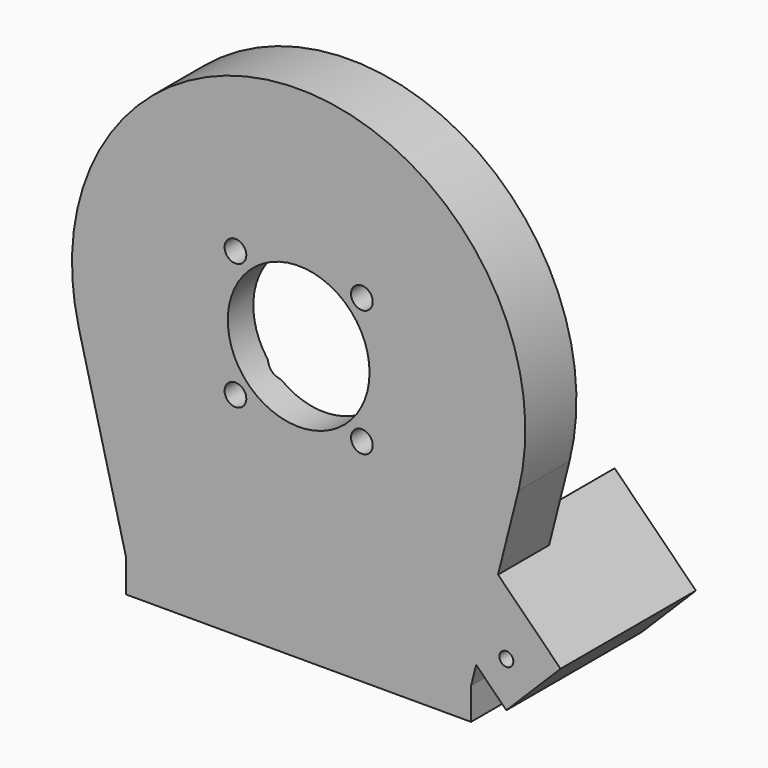
from build123d import *

# Parameters (mm, degrees)
SKETCH016_W         = 54
SKETCH016_H         = 20
SKETCH016_R         = 2.35
PAD010_DEPTH        = 5
SKETCH019_R         = 11.1
SKETCH019_R_2       = 1.65
PAD009_DEPTH        = 10
SKETCH017_R         = 32.6
POCKET006_DEPTH     = 15.001
SKETCH076_R         = 32.6
SKETCH076_R_2       = 28.75
PAD049_DEPTH        = 4
SKETCH090_R         = 1.092
PAD055_DEPTH        = 26.5
HOLE009_D           = 3.4
HOLE009_CSINK_D     = 6.7
HOLE009_CSINK_ANGLE = 90


with BuildPart() as part:
    # Sketch016 → Pad010 (new body)
    with BuildSketch(Plane.XY):
        with Locations((0, 10)):
            Rectangle(SKETCH016_W, SKETCH016_H)
        with Locations((-20, 15)):
            Circle(SKETCH016_R, mode=Mode.SUBTRACT)
        with Locations((20, 15)):
            Circle(SKETCH016_R, mode=Mode.SUBTRACT)
    extrude(amount=PAD010_DEPTH)

    # Sketch019 → Pad009 (join)
    with BuildSketch(Plane.XZ):
        with BuildLine():
            Line((-27, 5), (-34.41436, 34.287835))
            ThreePointArc((34.41436, 34.287835), (0, 78.5), (-34.41436, 34.287835))
            Line((34.41436, 34.287835), (27, 5))
            Line((-27, 5), (27, 5))
        make_face()
        with Locations((0, 43)):
            Circle(SKETCH019_R, mode=Mode.SUBTRACT)
        with Locations((9.899495, 52.899495)):
            Circle(SKETCH019_R_2, mode=Mode.SUBTRACT)
        with Locations((-9.899495, 52.899495)):
            Circle(SKETCH019_R_2, mode=Mode.SUBTRACT)
        with Locations((9.899495, 33.100505)):
            Circle(SKETCH019_R_2, mode=Mode.SUBTRACT)
        with Locations((-9.899495, 33.100505)):
            Circle(SKETCH019_R_2, mode=Mode.SUBTRACT)
    extrude(amount=-PAD009_DEPTH)

    # Sketch017 → Pocket006 (cut, through all)
    with BuildSketch(Plane.XZ.offset(-5)):
        with Locations((0, 43)):
            Circle(SKETCH017_R)
    extrude(amount=-POCKET006_DEPTH, mode=Mode.SUBTRACT)

    # Sketch076 → Pad049 (join)
    with BuildSketch(Plane.XZ.offset(-4)):
        with Locations((0, 43)):
            Circle(SKETCH076_R)
        with Locations((0, 43)):
            Circle(SKETCH076_R_2, mode=Mode.SUBTRACT)
    extrude(amount=-PAD049_DEPTH)

    # Sketch090 → Pad055 (join)
    with BuildSketch(Plane.XZ):
        Polygon((28.284271, 24.615224), (23.334524, 19.665476), (23.334524, 12.594408), (32.526912, 3.40202), (41.012193, 11.887302), align=None)
        with Locations((32.526912, 10.473088)):
            Circle(SKETCH090_R, mode=Mode.SUBTRACT)
        with Locations((26.870058, 16.129942)):
            Circle(SKETCH090_R, mode=Mode.SUBTRACT)
    extrude(amount=-PAD055_DEPTH)

    # Hole009 (through all)
    with Locations(Plane(origin=(0, 5, 0), x_dir=(1, 0, 0), z_dir=(0, 1, 0))):
        with Locations((-9.899495, -52.899495), (9.899495, -52.899495), (9.899495, -33.100505), (-9.899495, -33.100505)):
            CounterSinkHole(HOLE009_D / 2, HOLE009_CSINK_D / 2, counter_sink_angle=HOLE009_CSINK_ANGLE)


solid = part.part
